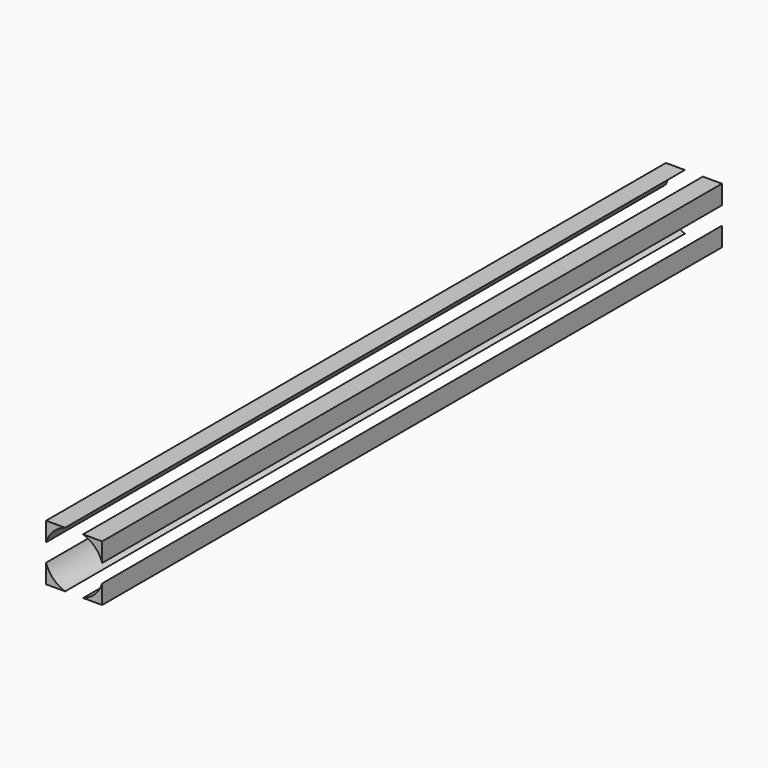
from build123d import *

# Parameters (mm, degrees)
F0_W     = 10
F0_H     = 10
F1_DEPTH = 138.176
F3_DEPTH = 138.177
F4_DEPTH = 138.177


with BuildPart() as f1:
    # F0 (on Front) → F1 (new body)
    with BuildSketch(Plane.XZ):
        with Locations((-25.8000018075, 21.5727293458)):
            Rectangle(F0_W, F0_H)
    extrude(amount=F1_DEPTH)

    # F2 (on face) → F3 (cut, through all)
    with BuildSketch(Plane.XZ.offset(138.176)):
        with BuildLine():
            Line((-20.8000018075, 19.9719482864), (-20.8000018075, 23.1735104051))
            ThreePointArc((-20.8000018075, 23.1735104051), (-22.0876912063, 25.285039947), (-24.1992207482, 26.5727293458))
            Line((-24.1992207482, 26.5727293458), (-27.4007828669, 26.5727293458))
            ThreePointArc((-27.4007828669, 26.5727293458), (-29.5123124087, 25.285039947), (-30.8000018075, 23.1735104051))
            Line((-30.8000018075, 23.1735104051), (-30.8000018075, 19.9719482864))
            ThreePointArc((-30.8000018075, 19.9719482864), (-29.5123124087, 17.8604187446), (-27.4007828669, 16.5727293458))
            Line((-27.4007828669, 16.5727293458), (-24.1992207482, 16.5727293458))
            ThreePointArc((-24.1992207482, 16.5727293458), (-22.0876912063, 17.8604187446), (-20.8000018075, 19.9719482864))
        make_face()
    extrude(amount=-F3_DEPTH, mode=Mode.SUBTRACT)

    # F2 (on face) → F4 (cut, through all)
    with BuildSketch(Plane.XZ.offset(138.176)):
        with BuildLine():
            Line((-20.8000018075, 19.9719482864), (-20.8000018075, 23.1735104051))
            ThreePointArc((-20.8000018075, 23.1735104051), (-22.0876912063, 25.285039947), (-24.1992207482, 26.5727293458))
            Line((-24.1992207482, 26.5727293458), (-27.4007828669, 26.5727293458))
            ThreePointArc((-27.4007828669, 26.5727293458), (-29.5123124087, 25.285039947), (-30.8000018075, 23.1735104051))
            Line((-30.8000018075, 23.1735104051), (-30.8000018075, 19.9719482864))
            ThreePointArc((-30.8000018075, 19.9719482864), (-29.5123124087, 17.8604187446), (-27.4007828669, 16.5727293458))
            Line((-27.4007828669, 16.5727293458), (-24.1992207482, 16.5727293458))
            ThreePointArc((-24.1992207482, 16.5727293458), (-22.0876912063, 17.8604187446), (-20.8000018075, 19.9719482864))
        make_face()
    extrude(amount=-F4_DEPTH, mode=Mode.SUBTRACT)


solid = f1.part
